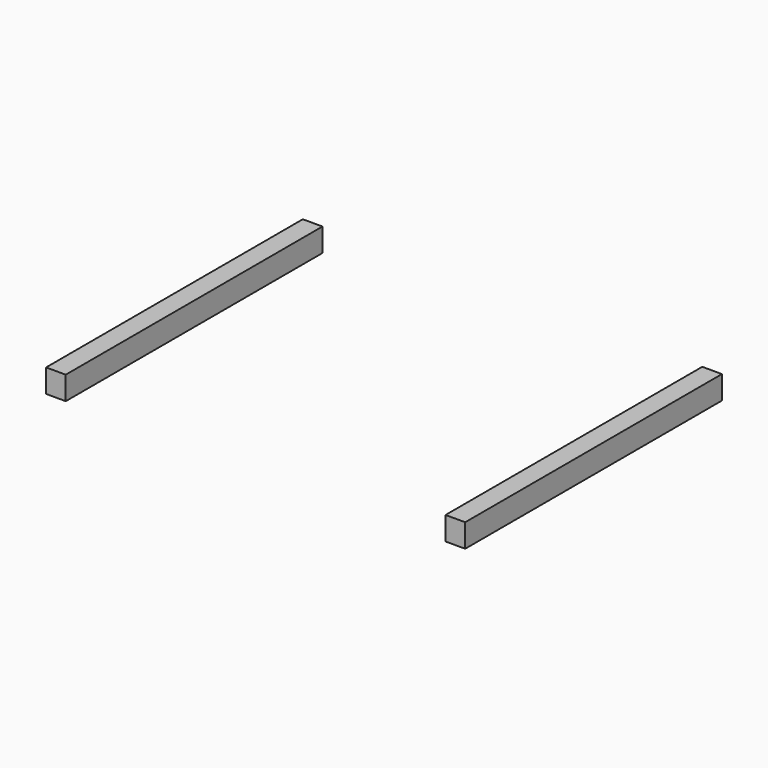
from build123d import *

# Parameters (mm, degrees)
F0_W     = 6.367277
F0_H     = 7.561216
F1_DEPTH = 103.886


with BuildPart() as f1:
    # F0 (on Front) → F1 (new body)
    with BuildSketch(Plane.XZ):
        with Locations((-64.658077, 22.797854)):
            Rectangle(F0_W, F0_H)
    extrude(amount=F1_DEPTH)


with BuildPart() as f2_1:
    # F2: instance of F1
    add(f1.part.mirror(Plane.YZ))


solid = Compound([f1.part, f2_1.part])
